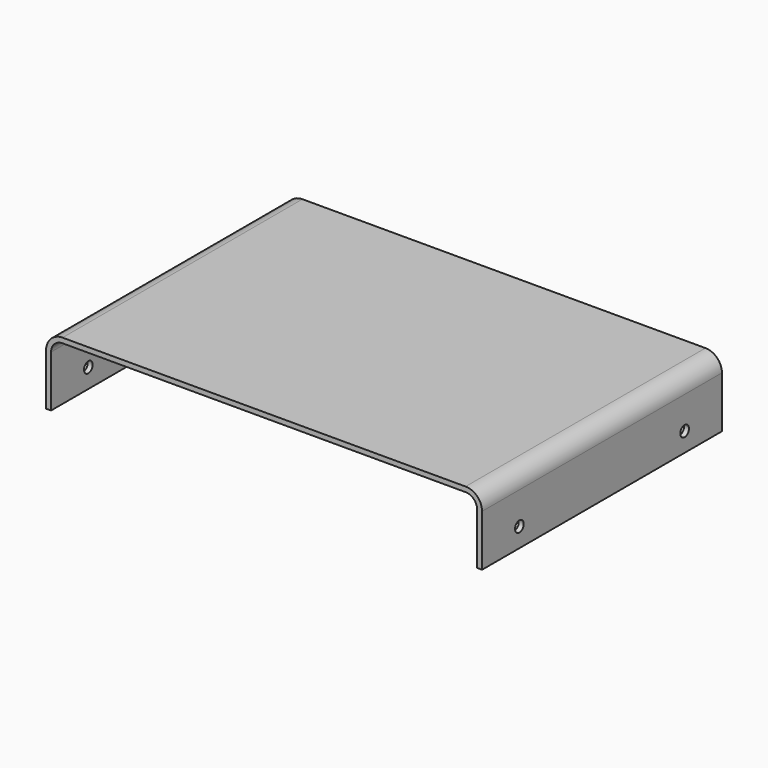
from build123d import *

# Parameters (mm, degrees)
F1_DEPTH = 124.46
F3_D     = 4.4958


with BuildPart() as f1:
    # F0 (on Front) → F1 (new body)
    with BuildSketch(Plane.XZ):
        with BuildLine():
            Line((0, 21.3614), (0, 0))
            Line((0, 0), (2.0574, 0))
            Line((2.0574, 0), (2.0574, 21.3614))
            ThreePointArc((2.0574, 21.3614), (3.456024, 24.737976), (6.8326, 26.1366))
            Line((6.8326, 26.1366), (174.1424, 26.1366))
            ThreePointArc((174.1424, 26.1366), (177.518976, 24.737976), (178.9176, 21.3614))
            Line((178.9176, 21.3614), (178.9176, 0))
            Line((178.9176, 0), (180.975, 0))
            Line((180.975, 0), (180.975, 21.3614))
            ThreePointArc((180.975, 21.3614), (178.973778, 26.192778), (174.1424, 28.194))
            Line((174.1424, 28.194), (6.8326, 28.194))
            ThreePointArc((6.8326, 28.194), (2.001222, 26.192778), (0, 21.3614))
        make_face()
    extrude(amount=-F1_DEPTH)

    # F3 (through all)
    with Locations(Plane.YZ.offset(180.975)):
        with Locations((19.3675, 7.9502), (105.0925, 7.9502)):
            Hole(F3_D / 2)


solid = f1.part
